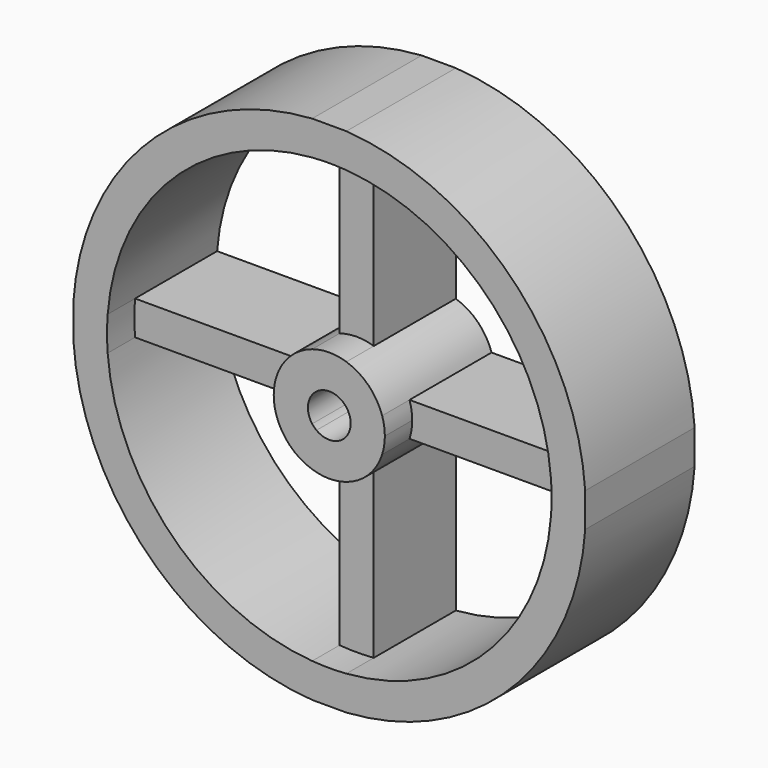
from build123d import *

# Parameters (mm, degrees)
F1_DEPTH = 3.2
F2_DEPTH = 2.4


with BuildPart() as f1:
    # F0 (on Front) → F1 (new body)
    with BuildSketch(Plane.XZ):
        with BuildLine():
            Line((-0.4, 5.1845925587), (-0.4, 5.9866518188))
            ThreePointArc((-0.4, 5.9866518188), (-4.2426406871, 4.2426406871), (-5.9866518188, 0.4))
            Line((-5.9866518188, 0.4), (-5.1845925587, 0.4))
            ThreePointArc((-5.1845925587, 0.4), (-3.6769552622, 3.6769552622), (-0.4, 5.1845925587))
        make_face()
        with BuildLine():
            Line((0.4, 5.1845925587), (0.4, 5.9866518188))
            Line((0.4, 5.9866518188), (-0.4, 5.9866518188))
            Line((-0.4, 5.9866518188), (-0.4, 5.1845925587))
            ThreePointArc((-0.4, 5.1845925587), (0, 5.2), (0.4, 5.1845925587))
        make_face()
        with BuildLine():
            Line((5.1845925587, 0.4), (5.9866518188, 0.4))
            ThreePointArc((5.9866518188, 0.4), (4.2426406871, 4.2426406871), (0.4, 5.9866518188))
            Line((0.4, 5.9866518188), (0.4, 5.1845925587))
            ThreePointArc((0.4, 5.1845925587), (3.6769552622, 3.6769552622), (5.1845925587, 0.4))
        make_face()
        with BuildLine():
            Line((5.9866518188, -0.4), (5.9866518188, 0.4))
            Line((5.9866518188, 0.4), (5.1845925587, 0.4))
            ThreePointArc((5.1845925587, 0.4), (5.196146712, 0.2001483133), (5.2, 0))
            ThreePointArc((5.2, 0), (5.196146712, -0.2001483133), (5.1845925587, -0.4))
            Line((5.1845925587, -0.4), (5.9866518188, -0.4))
        make_face()
        with BuildLine():
            ThreePointArc((0.4, -5.9866518188), (4.2426406871, -4.2426406871), (5.9866518188, -0.4))
            Line((5.9866518188, -0.4), (5.1845925587, -0.4))
            ThreePointArc((5.1845925587, -0.4), (3.6769552622, -3.6769552622), (0.4, -5.1845925587))
            Line((0.4, -5.1845925587), (0.4, -5.9866518188))
        make_face()
        with BuildLine():
            Line((-0.4, -5.9866518188), (0.4, -5.9866518188))
            Line((0.4, -5.9866518188), (0.4, -5.1845925587))
            ThreePointArc((0.4, -5.1845925587), (0, -5.2), (-0.4, -5.1845925587))
            Line((-0.4, -5.1845925587), (-0.4, -5.9866518188))
        make_face()
        with BuildLine():
            ThreePointArc((-5.9866518188, -0.4), (-4.2426406871, -4.2426406871), (-0.4, -5.9866518188))
            Line((-0.4, -5.9866518188), (-0.4, -5.1845925587))
            ThreePointArc((-0.4, -5.1845925587), (-3.6769552622, -3.6769552622), (-5.1845925587, -0.4))
            Line((-5.1845925587, -0.4), (-5.9866518188, -0.4))
        make_face()
        with BuildLine():
            Line((-5.1845925587, 0.4), (-5.9866518188, 0.4))
            Line((-5.9866518188, 0.4), (-5.9866518188, -0.4))
            Line((-5.9866518188, -0.4), (-5.1845925587, -0.4))
            ThreePointArc((-5.1845925587, -0.4), (-5.2, 0), (-5.1845925587, 0.4))
        make_face()
    extrude(amount=F1_DEPTH)


with BuildPart() as f1b:
    # F0 (on Front) → F1, piece 2 (new body)
    with BuildSketch(Plane.XZ):
        with BuildLine():
            Line((-0.4, 0.4), (-0.4, 1.2369316877))
            ThreePointArc((-0.4, 1.2369316877), (-0.9192388155, 0.9192388155), (-1.2369316877, 0.4))
            Line((-1.2369316877, 0.4), (-0.4, 0.4))
        make_face()
        with BuildLine():
            Line((0.4, 0.4), (0.4, 1.2369316877))
            ThreePointArc((0.4, 1.2369316877), (0, 1.3), (-0.4, 1.2369316877))
            Line((-0.4, 1.2369316877), (-0.4, 0.4))
            Line((-0.4, 0.4), (-0.3, 0.4))
            ThreePointArc((-0.3, 0.4), (0, 0.5), (0.3, 0.4))
            Line((0.3, 0.4), (0.4, 0.4))
        make_face()
        with BuildLine():
            Line((0.4, 0.4), (1.2369316877, 0.4))
            ThreePointArc((1.2369316877, 0.4), (0.9192388155, 0.9192388155), (0.4, 1.2369316877))
            Line((0.4, 1.2369316877), (0.4, 0.4))
        make_face()
        with BuildLine():
            ThreePointArc((1.3, 0), (1.2841361287, 0.202470746), (1.2369316877, 0.4))
            Line((1.2369316877, 0.4), (0.4, 0.4))
            Line((0.4, 0.4), (0.4, 0.3))
            ThreePointArc((0.4, 0.3), (0.474341649, 0.158113883), (0.5, 0))
            ThreePointArc((0.5, 0), (0.474341649, -0.158113883), (0.4, -0.3))
            Line((0.4, -0.3), (0.4, -0.4))
            Line((0.4, -0.4), (1.2369316877, -0.4))
            ThreePointArc((1.2369316877, -0.4), (1.2841361287, -0.202470746), (1.3, 0))
        make_face()
        with BuildLine():
            ThreePointArc((0.4, -1.2369316877), (0.9192388155, -0.9192388155), (1.2369316877, -0.4))
            Line((1.2369316877, -0.4), (0.4, -0.4))
            Line((0.4, -0.4), (0.4, -1.2369316877))
        make_face()
        with BuildLine():
            ThreePointArc((-0.4, -1.2369316877), (0, -1.3), (0.4, -1.2369316877))
            Line((0.4, -1.2369316877), (0.4, -0.4))
            Line((0.4, -0.4), (0.3, -0.4))
            ThreePointArc((0.3, -0.4), (0, -0.5), (-0.3, -0.4))
            Line((-0.3, -0.4), (-0.4, -0.4))
            Line((-0.4, -0.4), (-0.4, -1.2369316877))
        make_face()
        with BuildLine():
            ThreePointArc((-1.2369316877, -0.4), (-0.9192388155, -0.9192388155), (-0.4, -1.2369316877))
            Line((-0.4, -1.2369316877), (-0.4, -0.4))
            Line((-0.4, -0.4), (-1.2369316877, -0.4))
        make_face()
        with BuildLine():
            Line((-0.4, 0.4), (-1.2369316877, 0.4))
            ThreePointArc((-1.2369316877, 0.4), (-1.3, 0), (-1.2369316877, -0.4))
            Line((-1.2369316877, -0.4), (-0.4, -0.4))
            Line((-0.4, -0.4), (-0.4, -0.3))
            ThreePointArc((-0.4, -0.3), (-0.5, 0), (-0.4, 0.3))
            Line((-0.4, 0.3), (-0.4, 0.4))
        make_face()
        with BuildLine():
            Line((-0.3, 0.4), (-0.4, 0.4))
            Line((-0.4, 0.4), (-0.4, 0.3))
            ThreePointArc((-0.4, 0.3), (-0.3535533906, 0.3535533906), (-0.3, 0.4))
        make_face()
        with BuildLine():
            Line((0.4, 0.3), (0.4, 0.4))
            Line((0.4, 0.4), (0.3, 0.4))
            ThreePointArc((0.3, 0.4), (0.3535533906, 0.3535533906), (0.4, 0.3))
        make_face()
        with BuildLine():
            Line((0.3, -0.4), (0.4, -0.4))
            Line((0.4, -0.4), (0.4, -0.3))
            ThreePointArc((0.4, -0.3), (0.3535533906, -0.3535533906), (0.3, -0.4))
        make_face()
        with BuildLine():
            Line((-0.4, -0.3), (-0.4, -0.4))
            Line((-0.4, -0.4), (-0.3, -0.4))
            ThreePointArc((-0.3, -0.4), (-0.3535533906, -0.3535533906), (-0.4, -0.3))
        make_face()
    extrude(amount=F1_DEPTH)


with BuildPart() as f2:
    # F0 (on Front) → F2 (new body)
    with BuildSketch(Plane.XZ):
        with BuildLine():
            Line((-1.2369316877, 0.4), (-5.1845925587, 0.4))
            ThreePointArc((-5.1845925587, 0.4), (-5.2, 0), (-5.1845925587, -0.4))
            Line((-5.1845925587, -0.4), (-1.2369316877, -0.4))
            ThreePointArc((-1.2369316877, -0.4), (-1.3, 0), (-1.2369316877, 0.4))
        make_face()
    extrude(amount=F2_DEPTH)


with BuildPart() as f2b:
    # F0 (on Front) → F2, piece 2 (new body)
    with BuildSketch(Plane.XZ):
        with BuildLine():
            Line((0.4, 1.2369316877), (0.4, 5.1845925587))
            ThreePointArc((0.4, 5.1845925587), (0, 5.2), (-0.4, 5.1845925587))
            Line((-0.4, 5.1845925587), (-0.4, 1.2369316877))
            ThreePointArc((-0.4, 1.2369316877), (0, 1.3), (0.4, 1.2369316877))
        make_face()
    extrude(amount=F2_DEPTH)


with BuildPart() as f2c:
    # F0 (on Front) → F2, piece 3 (new body)
    with BuildSketch(Plane.XZ):
        with BuildLine():
            ThreePointArc((5.2, 0), (5.196146712, 0.2001483133), (5.1845925587, 0.4))
            Line((5.1845925587, 0.4), (1.2369316877, 0.4))
            ThreePointArc((1.2369316877, 0.4), (1.2841361287, 0.202470746), (1.3, 0))
            ThreePointArc((1.3, 0), (1.2841361287, -0.202470746), (1.2369316877, -0.4))
            Line((1.2369316877, -0.4), (5.1845925587, -0.4))
            ThreePointArc((5.1845925587, -0.4), (5.196146712, -0.2001483133), (5.2, 0))
        make_face()
    extrude(amount=F2_DEPTH)


with BuildPart() as f2d:
    # F0 (on Front) → F2, piece 4 (new body)
    with BuildSketch(Plane.XZ):
        with BuildLine():
            ThreePointArc((-0.4, -5.1845925587), (0, -5.2), (0.4, -5.1845925587))
            Line((0.4, -5.1845925587), (0.4, -1.2369316877))
            ThreePointArc((0.4, -1.2369316877), (0, -1.3), (-0.4, -1.2369316877))
            Line((-0.4, -1.2369316877), (-0.4, -5.1845925587))
        make_face()
    extrude(amount=F2_DEPTH)


solid = Compound([f1.part, f1b.part, f2.part, f2b.part, f2c.part, f2d.part])
